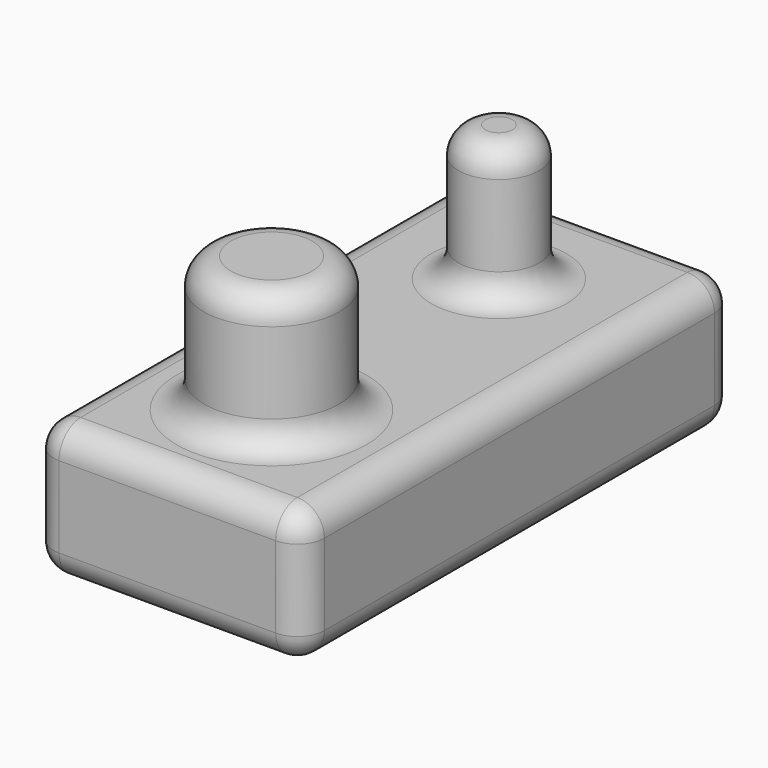
from build123d import *

# Parameters (mm, degrees)
F0_W     = 10
F0_H     = 20
F1_DEPTH = 5
F2_R     = 1.5
F2_R_2   = 2.5
F3_DEPTH = 5
F4_R     = 1


with BuildPart() as f1:
    # F0 (on Top) → F1 (new body)
    with BuildSketch(Plane.XY):
        Rectangle(F0_W, F0_H)
    extrude(amount=F1_DEPTH)

    # F2 (on face) → F3 (join)
    with BuildSketch(Plane.XY.offset(5)):
        with Locations((0, 5.30432)):
            Circle(F2_R)
        with Locations((0, -5.19385)):
            Circle(F2_R_2)
    extrude(amount=F3_DEPTH)

    # F4
    f4_edges = [f1.edges().sort_by_distance(p)[0] for p in [
        (5, 0, 5),
        (0, -10, 5),
        (5, -10, 2.5),
        (5, 10, 2.5),
        (5, 0, 0),
        (-5, 0, 5),
        (0, 10, 5),
        (0, -10, 0),
        (0, 10, 0),
        (-5, 0, 0),
        (-5, -10, 2.5),
        (-5, 10, 2.5),
        (-2.5, -5.19385, 10),
        (-1.5, 5.30432, 10),
        (-1.5, 5.30432, 5),
        (-2.5, -5.19385, 5),
    ]]
    fillet(f4_edges, radius=F4_R)


solid = f1.part
